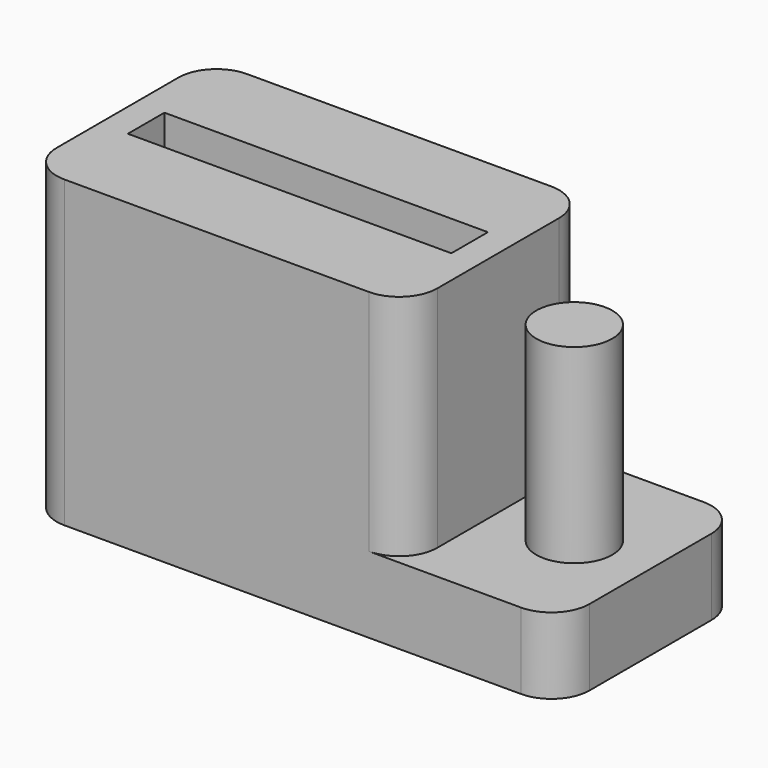
from build123d import *

# Parameters (mm, degrees)
F0_W     = 14
F0_H     = 6
F0_W_2   = 8.5
F0_H_2   = 1.2
F1_DEPTH = 8
F2_W     = 4
F2_H     = 6
F3_DEPTH = 6
F4_R     = 1
F5_DEPTH = 5
F6_R     = 1


with BuildPart() as f1:
    # F0 (on Top) → F1 (new body)
    with BuildSketch(Plane.XY):
        with Locations((2, 0)):
            Rectangle(F0_W, F0_H)
        Rectangle(F0_W_2, F0_H_2, mode=Mode.SUBTRACT)
    extrude(amount=F1_DEPTH)

    # F2 (on face) → F3 (cut)
    with BuildSketch(Plane.XY.offset(8)):
        with Locations((7, 0)):
            Rectangle(F2_W, F2_H)
    extrude(amount=-F3_DEPTH, mode=Mode.SUBTRACT)

    # F4 (on face) → F5 (join)
    with BuildSketch(Plane.XY.offset(2)):
        with Locations((7, 0)):
            Circle(F4_R)
    extrude(amount=F5_DEPTH)

    # F6
    f6_edges = [f1.edges().sort_by_distance(p)[0] for p in [
        (5, 3, 5),
        (5, -3, 5),
        (9, -3, 1),
        (9, 3, 1),
        (-5, 3, 4),
        (-5, -3, 4),
    ]]
    fillet(f6_edges, radius=F6_R)


solid = f1.part
